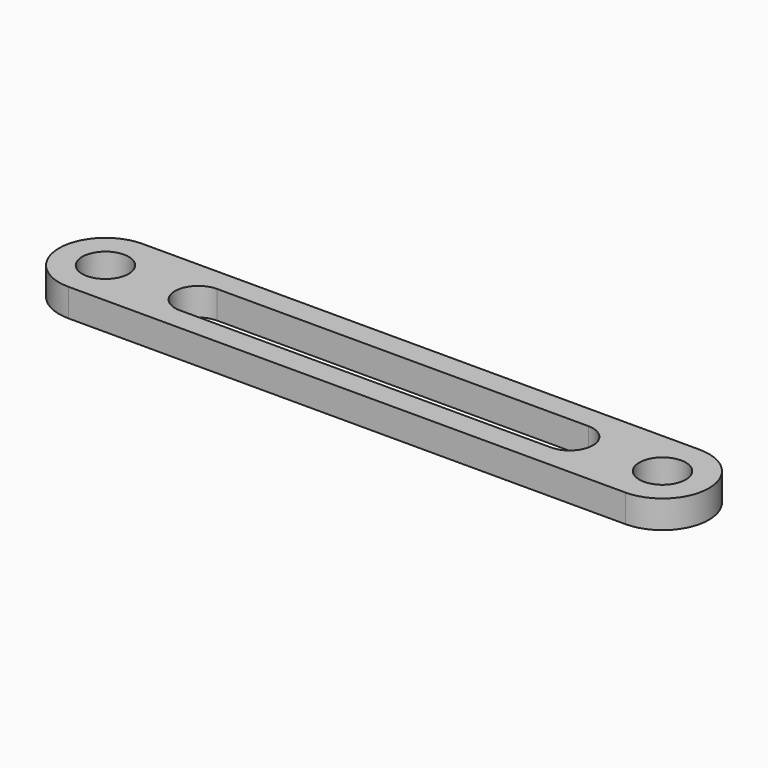
from build123d import *

# Parameters (mm, degrees)
F0_R     = 2.5
F1_DEPTH = 3


with BuildPart() as f1:
    # F0 (on Top) → F1 (new body)
    with BuildSketch(Plane.XY):
        with BuildLine():
            Line((60, 5), (0, 5))
            ThreePointArc((0, 5), (-5, 0), (0, -5))
            Line((0, -5), (60, -5))
            ThreePointArc((60, -5), (65, 0), (60, 5))
        make_face()
        Circle(F0_R, mode=Mode.SUBTRACT)
        with BuildLine():
            ThreePointArc((10, -2.5), (7.5, 0), (10, 2.5))
            Line((10, 2.5), (50, 2.5))
            ThreePointArc((50, 2.5), (52.5, 0), (50, -2.5))
            Line((50, -2.5), (10, -2.5))
        make_face(mode=Mode.SUBTRACT)
        with Locations((60, 0)):
            Circle(F0_R, mode=Mode.SUBTRACT)
    extrude(amount=F1_DEPTH)


solid = f1.part
